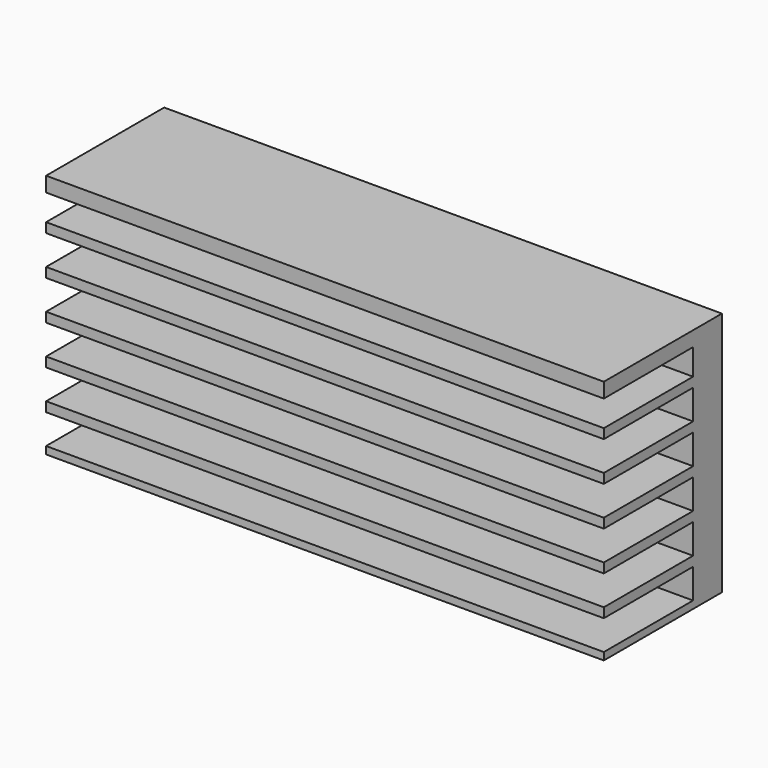
from build123d import *

# Parameters (mm, degrees)
F0_W     = 150
F0_H     = 66
F1_DEPTH = 39.7
F2_W     = 150
F2_H     = 7
F3_DEPTH = 30
F2_H_2   = 8
F4_DEPTH = 30
F5_DEPTH = 30
F6_DEPTH = 30
F7_DEPTH = 30
F8_DEPTH = 30


with BuildPart() as f1:
    # F0 (on Front) → F1 (new body)
    with BuildSketch(Plane.XZ):
        with Locations((-68.706734, 1.151069)):
            Rectangle(F0_W, F0_H)
        with Locations((-68.706734, 1.151069)):
            Rectangle(F0_W, F0_H)
    extrude(amount=F1_DEPTH)

    # F2 (on face) → F3 (cut)
    with BuildSketch(Plane.XZ.offset(39.7)):
        with Locations((-68.706734, 26.651069)):
            Rectangle(F2_W, F2_H)
    extrude(amount=-F3_DEPTH, mode=Mode.SUBTRACT)

    # F2 (on face) → F4 (cut)
    with BuildSketch(Plane.XZ.offset(39.7)):
        with Locations((-68.706734, 16.551069)):
            Rectangle(F2_W, F2_H_2)
    extrude(amount=-F4_DEPTH, mode=Mode.SUBTRACT)

    # F2 (on face) → F5 (cut)
    with BuildSketch(Plane.XZ.offset(39.7)):
        with Locations((-68.706734, 5.951069)):
            Rectangle(F2_W, F2_H_2)
    extrude(amount=-F5_DEPTH, mode=Mode.SUBTRACT)

    # F2 (on face) → F6 (cut)
    with BuildSketch(Plane.XZ.offset(39.7)):
        with Locations((-68.706734, -4.648931)):
            Rectangle(F2_W, F2_H_2)
    extrude(amount=-F6_DEPTH, mode=Mode.SUBTRACT)

    # F2 (on face) → F7 (cut)
    with BuildSketch(Plane.XZ.offset(39.7)):
        with Locations((-68.706734, -15.248931)):
            Rectangle(F2_W, F2_H_2)
    extrude(amount=-F7_DEPTH, mode=Mode.SUBTRACT)

    # F2 (on face) → F8 (cut)
    with BuildSketch(Plane.XZ.offset(39.7)):
        with Locations((-68.706734, -25.848931)):
            Rectangle(F2_W, F2_H_2)
    extrude(amount=-F8_DEPTH, mode=Mode.SUBTRACT)


solid = f1.part
